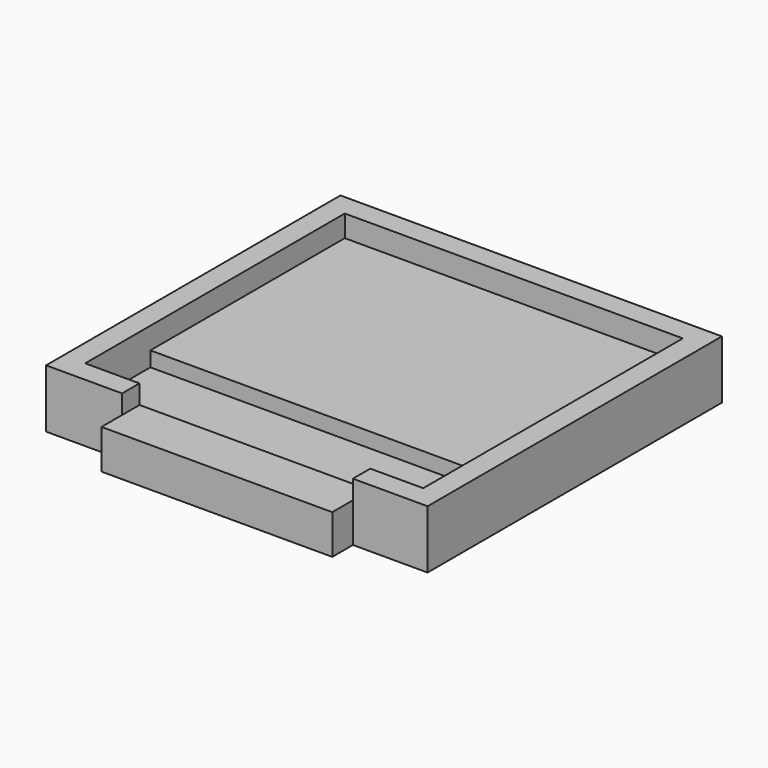
from build123d import *

# Parameters (mm, degrees)
F0_W     = 24.9
F0_H     = 17.9
F0_W_2   = 17
F0_H_2   = 1.6
F0_H_3   = 1.9
F1_DEPTH = 4.3
F2_DEPTH = 2.7
F3_DEPTH = 1.6
F4_DEPTH = 1.4


with BuildPart() as f1:
    # F0 (on Top) → F1 (new body)
    with BuildSketch(Plane.XY):
        Polygon((14, -12.731579), (14, 14.368421), (-14.1, 14.368421), (-14.1, -12.731579), (-8.5, -12.731579), (-8.5, -11.131579), (-12.5, -11.131579), (-12.5, -5.131579), (-12.5, 12.768421), (12.4, 12.768421), (12.4, -5.131579), (12.4, -11.131579), (8.5, -11.131579), (8.5, -12.731579), align=None)
        with Locations((-0.05, 3.818421)):
            Rectangle(F0_W, F0_H)
        Polygon((-8.5, -11.131579), (8.5, -11.131579), (12.4, -11.131579), (12.4, -5.131579), (-12.5, -5.131579), (-12.5, -11.131579), align=None)
        with Locations((0, -11.931579)):
            Rectangle(F0_W_2, F0_H_2)
        with Locations((0, -13.681579)):
            Rectangle(F0_W_2, F0_H_3)
    extrude(amount=-F1_DEPTH)

    # F0 (on Top) → F2 (cut)
    with BuildSketch(Plane.XY):
        Polygon((-8.5, -11.131579), (8.5, -11.131579), (12.4, -11.131579), (12.4, -5.131579), (-12.5, -5.131579), (-12.5, -11.131579), align=None)
    extrude(amount=-F2_DEPTH, mode=Mode.SUBTRACT)

    # F0 (on Top) → F3 (cut)
    with BuildSketch(Plane.XY):
        with Locations((-0.05, 3.818421)):
            Rectangle(F0_W, F0_H)
    extrude(amount=-F3_DEPTH, mode=Mode.SUBTRACT)

    # F0 (on Top) → F4 (cut)
    with BuildSketch(Plane.XY):
        with Locations((0, -11.931579)):
            Rectangle(F0_W_2, F0_H_2)
        with Locations((0, -13.681579)):
            Rectangle(F0_W_2, F0_H_3)
    extrude(amount=-F4_DEPTH, mode=Mode.SUBTRACT)


solid = f1.part
